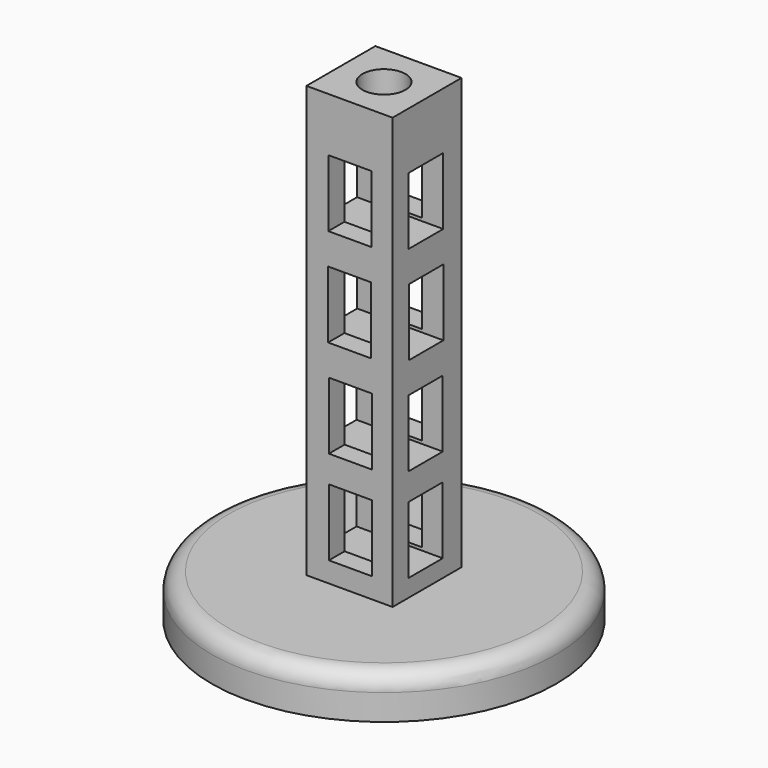
from build123d import *

# Parameters (mm, degrees)
F0_R     = 50.8
F1_DEPTH = 12.7
F2_W     = 25.4
F2_H     = 25.4
F3_DEPTH = 127
F4_W     = 12.7
F4_H     = 19.730706
F5_DEPTH = 25.4
F6_W     = 12.7
F6_H     = 19.730706
F7_DEPTH = 25.4
F8_R     = 6.35
F9_DEPTH = 12.7
F10_R    = 5.08


with BuildPart() as f1:
    # F0 (on Top) → F1 (new body)
    with BuildSketch(Plane.XY):
        Circle(F0_R)
    extrude(amount=F1_DEPTH)

    # F2 (on face) → F3 (join)
    with BuildSketch(Plane.XY.offset(12.7)):
        Rectangle(F2_W, F2_H)
    extrude(amount=F3_DEPTH)

    # F4 (on face) → F5 (cut)
    with BuildSketch(Plane.XZ.offset(12.7)):
        with Locations((0.098038, 113.95823)):
            Rectangle(F4_W, F4_H)
        with Locations((0.036561, 85.036777)):
            Rectangle(F4_W, F4_H)
        with Locations((0.27161, 56.256354)):
            Rectangle(F4_W, F4_H)
        with Locations((0.271611, 28.572757)):
            Rectangle(F4_W, F4_H)
    extrude(amount=-F5_DEPTH, mode=Mode.SUBTRACT)

    # F6 (on face) → F7 (cut)
    with BuildSketch(Plane(origin=(-12.7, 0, 0), x_dir=(0, -1, 0), z_dir=(-1, 0, 0))):
        with Locations((0.396478, 113.09307)):
            Rectangle(F6_W, F6_H)
        with Locations((0.335001, 84.171617)):
            Rectangle(F6_W, F6_H)
        with Locations((0.57005, 55.391194)):
            Rectangle(F6_W, F6_H)
        with Locations((0.570051, 27.707597)):
            Rectangle(F6_W, F6_H)
    extrude(amount=-F7_DEPTH, mode=Mode.SUBTRACT)

    # F8 (on face) → F9 (cut)
    with BuildSketch(Plane.XY.offset(139.7)):
        Circle(F8_R)
    extrude(amount=-F9_DEPTH, mode=Mode.SUBTRACT)

    # F10
    f10_edges = [f1.edges().sort_by_distance(p)[0] for p in [
        (-50.8, 0, 12.7),
    ]]
    fillet(f10_edges, radius=F10_R)


solid = f1.part
